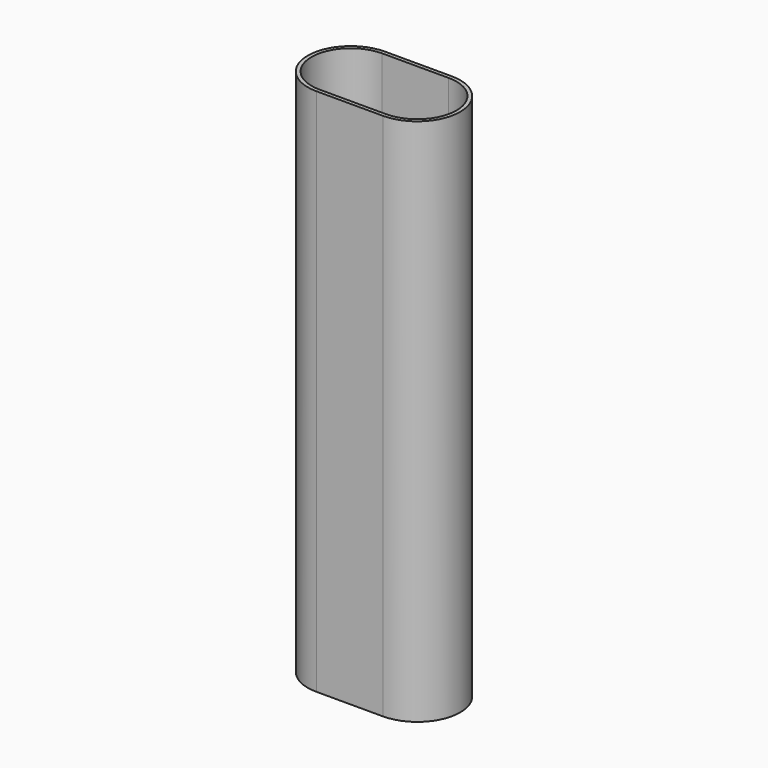
from build123d import *

# Parameters (mm, degrees)
F1_DEPTH = 85
F0_W     = 50
F0_H     = 7
F2_R     = 12.5
F2_R_2   = 7.5
F3_DEPTH = 12.5
F4_W     = 25.6223708915
F4_H     = 20
F5_DEPTH = 25


with BuildPart() as f1:
    # F0 (on Top) → F1 (new body)
    with BuildSketch(Plane.XY):
        with BuildLine():
            Line((5.35, 6.9), (-5.35, 6.9))
            ThreePointArc((-5.35, 6.9), (-12.25, 0), (-5.35, -6.9))
            Line((-5.35, -6.9), (5.35, -6.9))
            ThreePointArc((5.35, -6.9), (12.25, 0), (5.35, 6.9))
        make_face()
        with BuildLine():
            ThreePointArc((-5.35, -6.3), (-11.65, 0), (-5.35, 6.3))
            Line((-5.35, 6.3), (5.35, 6.3))
            ThreePointArc((5.35, 6.3), (11.65, 0), (5.35, -6.3))
            Line((5.35, -6.3), (-5.35, -6.3))
        make_face(mode=Mode.SUBTRACT)
    extrude(amount=F1_DEPTH)


with BuildPart() as f1b:
    # F0 (on Top) → F1, piece 2 (new body)
    with BuildSketch(Plane.XY):
        with Locations((0, -23.5)):
            Rectangle(F0_W, F0_H)
    extrude(amount=F1_DEPTH)


with BuildPart() as f3:
    # F2 (on Right) → F3 (new body, symmetric)
    with BuildSketch(Plane.YZ):
        with Locations((-35, 30)):
            Circle(F2_R)
        with Locations((-35, 30)):
            Circle(F2_R_2, mode=Mode.SUBTRACT)
    extrude(amount=F3_DEPTH, both=True)

    # F4 (on face) → F5 (join)
    with BuildSketch(Plane.YZ.offset(12.5)):
        with Locations((-42.8111854458, 34.4098300563)):
            Rectangle(F4_W, F4_H)
    extrude(amount=F5_DEPTH)


solid = f1.part
